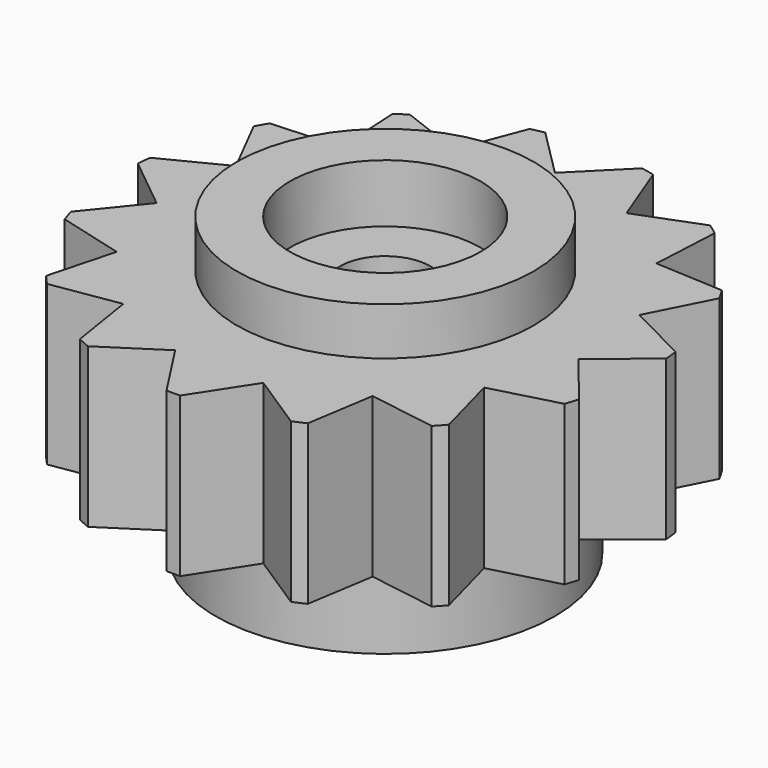
from build123d import *

# Parameters (mm, degrees)
SKETCH_R           = 5
PAD_DEPTH          = 3
SKETCH001_R        = 2.8
PAD001_DEPTH       = 0.9
SKETCH002_R        = 1.8
POCKET_DEPTH       = 1.1
SKETCH003_R        = 3.2
PAD002_DEPTH       = 1.7
SKETCH004_R        = 2.3
POCKET001_DEPTH    = 2.6
SKETCH005_R        = 0.4
POCKET002_DEPTH    = 4.701
POCKET003_DEPTH    = 35.122045
POLARPATTERN_COUNT = 15
SKETCH008_R        = 0.85
POCKET004_DEPTH    = 4.501


with BuildPart() as part:
    # Sketch → Pad (new body)
    with BuildSketch(Plane.XY):
        Circle(SKETCH_R)
    extrude(amount=PAD_DEPTH)

    # Sketch001 → Pad001 (new body)
    with BuildSketch(Plane.XY.offset(3)):
        Circle(SKETCH001_R)
    extrude(amount=PAD001_DEPTH)

    # Sketch002 → Pocket (cut)
    with BuildSketch(Plane.XY.offset(3.9)):
        Circle(SKETCH002_R)
    extrude(amount=-POCKET_DEPTH, mode=Mode.SUBTRACT)

    # Sketch003 → Pad002 (new body)
    with BuildSketch(Plane(origin=(0, 0, 0), x_dir=(1, 0, 0), z_dir=(0, 0, -1))):
        Circle(SKETCH003_R)
    extrude(amount=PAD002_DEPTH)

    # Sketch004 → Pocket001 (cut)
    with BuildSketch(Plane(origin=(0, 0, -1.7), x_dir=(1, 0, 0), z_dir=(0, 0, -1))):
        Circle(SKETCH004_R)
    extrude(amount=-POCKET001_DEPTH, mode=Mode.SUBTRACT)

    # Sketch005 → Pocket002 (cut, through all)
    with BuildSketch(Plane.XY.offset(3)):
        with Locations((-1.8, 7.126184)):
            Circle(SKETCH005_R)
        with Locations((1.8, 7.126184)):
            Circle(SKETCH005_R)
    extrude(amount=-POCKET002_DEPTH, mode=Mode.SUBTRACT)

    # Sketch007 → Pocket003 (cut, through all)
    with BuildSketch(Plane.XY.offset(3)):
        Polygon((-1, 5.002483), (0, 4.002483), (1, 5.002483), align=None)
    pocket003 = extrude(amount=-POCKET003_DEPTH, mode=Mode.SUBTRACT)

    # PolarPattern: Pocket003 ×15 about axis
    polarpattern_axis = Axis((0, 0, 3), (0, 0, 1))
    for i in range(1, POLARPATTERN_COUNT):
        add(pocket003.rotate(polarpattern_axis, i * 360 / POLARPATTERN_COUNT), mode=Mode.SUBTRACT)

    # Sketch008 → Pocket004 (cut, through all)
    with BuildSketch(Plane.XY.offset(2.8)):
        Circle(SKETCH008_R)
    extrude(amount=-POCKET004_DEPTH, mode=Mode.SUBTRACT)


solid = part.part
